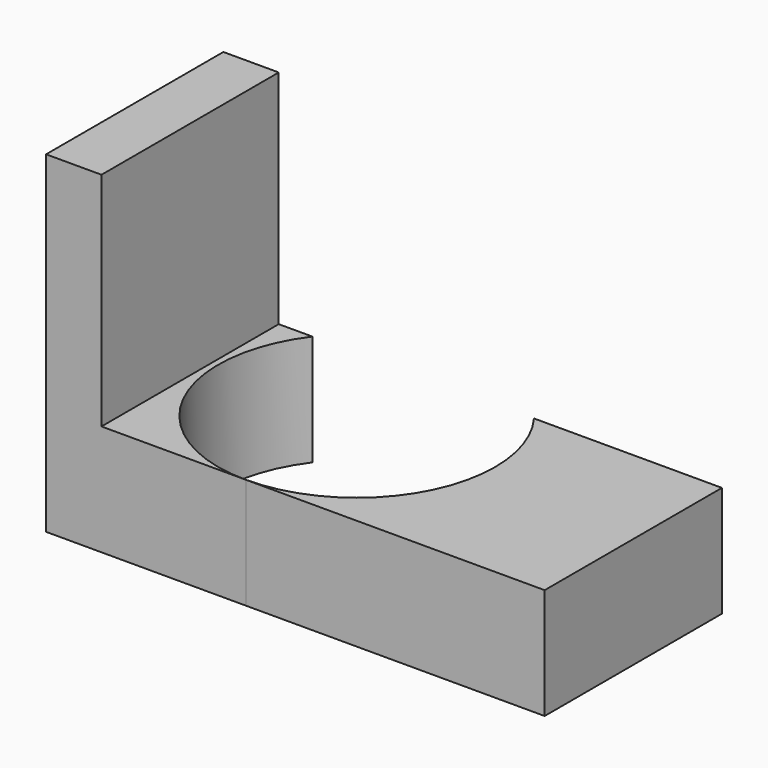
from build123d import *

# Parameters (mm, degrees)
F1_DEPTH = 25.4
F3_DEPTH = 25.4


with BuildPart() as f1:
    # F0 (on Front) → F1 (new body)
    with BuildSketch(Plane.XZ):
        Polygon((0, 38.1), (0, 0), (57.15, 0), (57.15, 12.7), (6.35, 12.7), (6.35, 38.1), align=None)
    extrude(amount=F1_DEPTH)

    # F2 (on face) → F3 (cut)
    with BuildSketch(Plane.XY.offset(12.7)):
        with BuildLine():
            ThreePointArc((22.904217, -25.4), (34.129537, -20.75032), (38.779217, -9.525))
            ThreePointArc((38.779217, -9.525), (37.964565, -4.504884), (35.604217, 0))
            Line((35.604217, 0), (10.204217, 0))
            ThreePointArc((10.204217, 0), (8.705186, -16.624516), (22.904217, -25.4))
        make_face()
    extrude(amount=-F3_DEPTH, mode=Mode.SUBTRACT)


solid = f1.part
